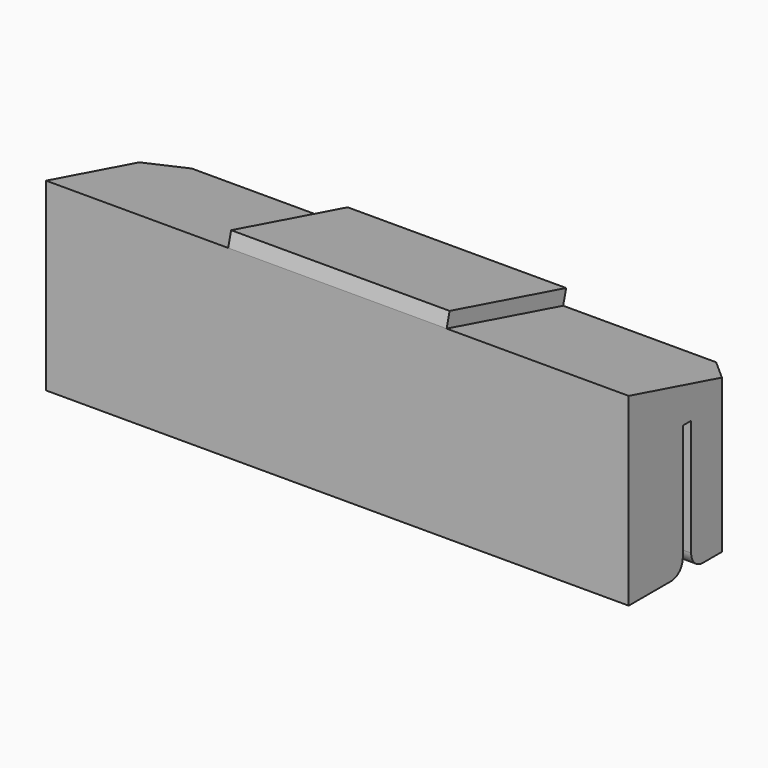
from build123d import *

# Parameters (mm, degrees)
F0_W     = 40
F0_H     = 10
F1_DEPTH = 10
F3_DEPTH = 40
F4_W     = 15
F4_H     = 10.352762
F5_DEPTH = 1
F6_W     = 40
F6_H     = 0.72
F7_DEPTH = 9
F8_R     = 1
F9_SIZE  = 2


with BuildPart() as f1:
    # F0 (on Top) → F1 (new body)
    with BuildSketch(Plane.XY):
        Rectangle(F0_W, F0_H)
    extrude(amount=F1_DEPTH)

    # F2 (on face) → F3 (join, through all)
    with BuildSketch(Plane.YZ.offset(20)):
        Polygon((-5, 10), (5, 10), (-5, 12.679492), align=None)
    extrude(amount=-F3_DEPTH)

    # F4 (on face) → F5 (join)
    with BuildSketch(Plane(origin=(0, 2.834936, 10.580127), x_dir=(1, 0, 0), z_dir=(0, 0.258819, 0.965926))):
        with Locations((0, -2.934942)):
            Rectangle(F4_W, F4_H)
    extrude(amount=F5_DEPTH)

    # F6 (on face) → F7 (cut)
    with BuildSketch(Plane(origin=(0, 0, 0), x_dir=(1, 0, 0), z_dir=(0, 0, -1))):
        Rectangle(F6_W, F6_H)
    extrude(amount=-F7_DEPTH, mode=Mode.SUBTRACT)

    # F8
    f8_edges = [f1.edges().sort_by_distance(p)[0] for p in [
        (0, -0.36, 0),
        (0, 0.36, 0),
    ]]
    fillet(f8_edges, radius=F8_R)

    # F9
    f9_edges = [f1.edges().sort_by_distance(p)[0] for p in [
        (20, 5, 5),
        (-20, 5, 5),
    ]]
    chamfer(f9_edges, length=F9_SIZE)


solid = f1.part
